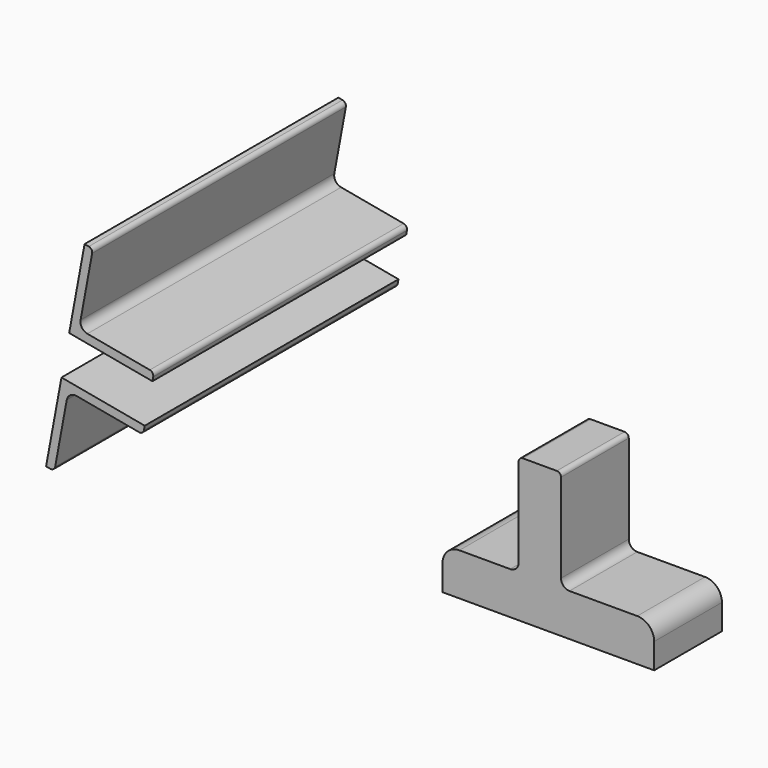
from build123d import *

# Parameters (mm, degrees)
F2_DEPTH = 374.51905
F5_DEPTH = 100


with BuildPart() as f2:
    # F0 (on Front) → F2 (new body)
    with BuildSketch(Plane.XZ):
        with BuildLine():
            Line((-28.795463, -38.765425), (-27.886613, -33.84872))
            Line((-27.886613, -33.84872), (-126.220722, -15.67173))
            Line((-126.220722, -15.67173), (-144.397712, -114.005839))
            Line((-144.397712, -114.005839), (-139.481007, -114.914689))
            ThreePointArc((-139.481007, -114.914689), (-135.738175, -114.117273), (-133.655452, -110.906833))
            Line((-133.655452, -110.906833), (-120.022709, -37.156251))
            ThreePointArc((-120.022709, -37.156251), (-115.857263, -30.735371), (-108.371599, -29.140539))
            Line((-108.371599, -29.140539), (-34.621018, -42.773281))
            ThreePointArc((-34.621018, -42.773281), (-30.878186, -41.975865), (-28.795463, -38.765425))
        make_face()
    extrude(amount=F2_DEPTH)


with BuildPart() as f4_1:
    # F4: instance of F2
    add(f2.part.mirror(Plane(origin=(-72.50942, -187.259525, -0.176698), x_dir=(1, 0, 0), z_dir=(0.18177, 0, 0.983341))))


with BuildPart() as f5:
    # F1 (on Front) → F5 (new body)
    with BuildSketch(Plane.XZ):
        with BuildLine():
            Line((103.990591, -245.581819), (103.990591, -275.581819))
            Line((103.990591, -275.581819), (353.990591, -275.581819))
            Line((353.990591, -275.581819), (353.990591, -245.581819))
            ThreePointArc((353.990591, -245.581819), (348.132727, -231.439684), (333.990591, -225.581819))
            Line((333.990591, -225.581819), (253.990591, -225.581819))
            ThreePointArc((253.990591, -225.581819), (246.919523, -222.652887), (243.990591, -215.581819))
            Line((243.990591, -215.581819), (243.990591, -110.581819))
            ThreePointArc((243.990591, -110.581819), (242.526125, -107.046285), (238.990591, -105.581819))
            Line((238.990591, -105.581819), (198.990591, -105.581819))
            ThreePointArc((198.990591, -105.581819), (195.455057, -107.046285), (193.990591, -110.581819))
            Line((193.990591, -110.581819), (193.990591, -215.581819))
            ThreePointArc((193.990591, -215.581819), (191.061659, -222.652887), (183.990591, -225.581819))
            Line((183.990591, -225.581819), (123.990591, -225.581819))
            ThreePointArc((123.990591, -225.581819), (109.848456, -231.439684), (103.990591, -245.581819))
        make_face()
    extrude(amount=F5_DEPTH)


solid = Compound([f2.part, f4_1.part, f5.part])
